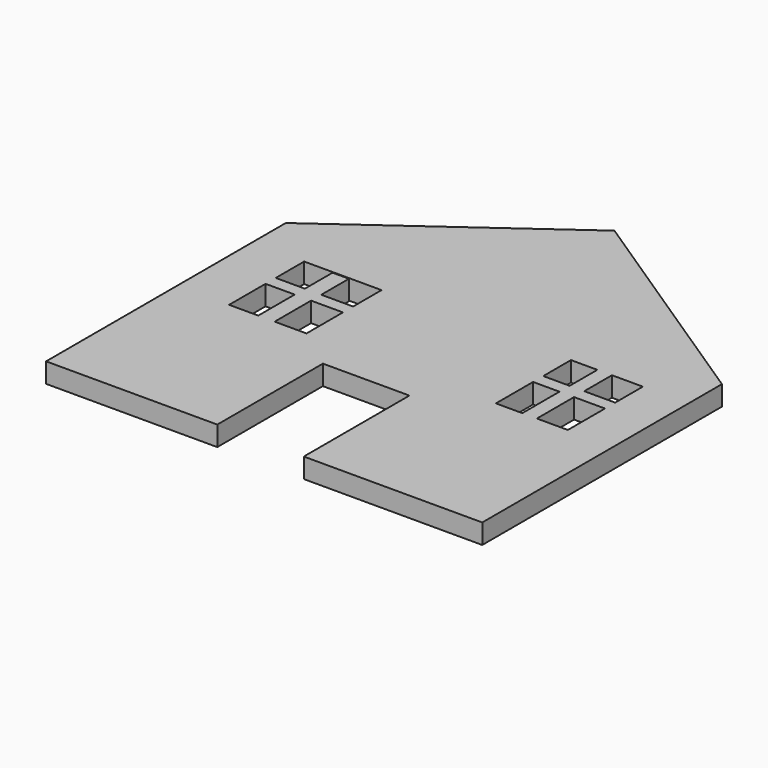
from build123d import *

# Parameters (mm, degrees)
F1_DEPTH = 6.35
F2_W     = 4.6636089683
F2_H     = 11.6590159014
F2_H_2   = 4.0806564502
F2_W_2   = 10.2016367018
F2_W_3   = 10.7845924795
F2_H_3   = 15.7396723516
F3_DEPTH = 6.35
F4_W     = 5.2465572953
F4_H     = 11.0760659445
F4_H_2   = 4.0806552861
F4_W_2   = 11.076066643
F4_W_3   = 10.4931145906
F4_H_3   = 15.1567212306
F5_DEPTH = 6.35


with BuildPart() as f1:
    # F0 (on Top) → F1 (new body)
    with BuildSketch(Plane.XY):
        Polygon((72.8688538074, 28.418853879), (-66.7478665709, 28.418853879), (-66.7478665709, -67.4765557051), (-11.9504919276, -67.4765557051), (-11.9504919276, -25.212623179), (15.7396737486, -25.212623179), (15.7396737486, -67.4765557051), (72.8688538074, -67.4765557051), align=None)
        Polygon((-50.1337721944, 0), (-50.1337721944, 15.0109836832), (-37.7460662276, 15.0109836832), (-25.3583602607, 15.0109836832), (-25.3583602607, 0), (-25.3583602607, -15.0109836832), (-37.7460662276, -15.0109836832), (-50.1337721944, -15.0109836832), align=None, mode=Mode.SUBTRACT)
        Polygon((35.2685265243, 0), (35.2685265243, 15.0109836832), (46.7818062752, 15.0109836832), (58.2950860262, 15.0109836832), (58.2950860262, 0), (58.2950860262, -15.0109836832), (46.7818062752, -15.0109836832), (35.2685265243, -15.0109836832), align=None, mode=Mode.SUBTRACT)
        Polygon((0, 76.5122994781), (-66.7478665709, 28.418853879), (72.8688538074, 28.418853879), align=None)
    extrude(amount=F1_DEPTH)

    # F2 (on Top) → F3 (join)
    with BuildSketch(Plane.XY):
        with Locations((46.0531152785, 9.7644259222)):
            Rectangle(F2_W, F2_H)
        with Locations((46.0531152785, 1.8945897464)):
            Rectangle(F2_W, F2_H_2)
        with Locations((38.6204924434, 1.8945897464)):
            Rectangle(F2_W_2, F2_H_2)
        with Locations((53.7772160023, 1.8945897464)):
            Rectangle(F2_W_3, F2_H_2)
        with Locations((46.0531152785, -8.0155746546)):
            Rectangle(F2_W, F2_H_3)
    extrude(amount=F3_DEPTH)

    # F4 (on Top) → F5 (join)
    with BuildSketch(Plane.XY):
        with Locations((-38.1832793355, 9.1814756161)):
            Rectangle(F4_W, F4_H)
        with Locations((-38.1832793355, 1.6031150008)):
            Rectangle(F4_W, F4_H_2)
        with Locations((-46.3445913047, 1.6031150008)):
            Rectangle(F4_W_2, F4_H_2)
        with Locations((-30.3134433925, 1.6031150008)):
            Rectangle(F4_W_3, F4_H_2)
        with Locations((-38.1832793355, -8.0155732576)):
            Rectangle(F4_W, F4_H_3)
    extrude(amount=F5_DEPTH)


solid = f1.part
